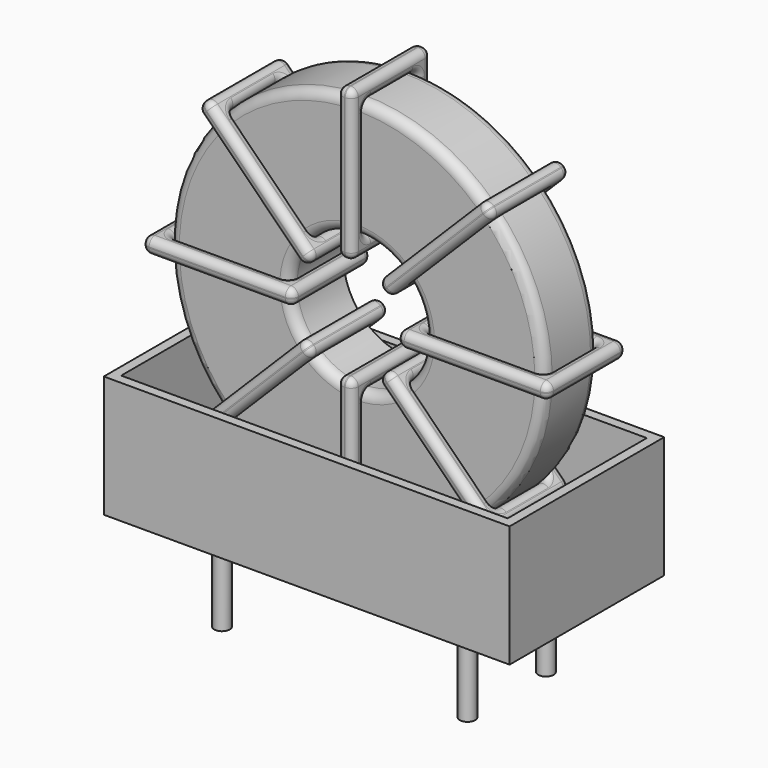
from build123d import *

# Parameters (mm, degrees)
SKETCH001_R   = 0.4
PAD001_DEPTH  = 5
SKETCH_R      = 9.7
SKETCH_R_2    = 3.5
PAD_DEPTH     = 1.74
FILLET_R      = 0.5
SKETCH003_W   = 7.8
SKETCH003_H   = 5.08
SKETCH003_W_2 = 6.2
SKETCH003_H_2 = 3.48
PAD002_DEPTH  = 0.4
FILLET001_R   = 0.376
SKETCH004_W   = 7.8
SKETCH004_H   = 5.08
SKETCH004_W_2 = 6.2
SKETCH004_H_2 = 3.48
PAD003_DEPTH  = 0.4
FILLET002_R   = 0.376
SKETCH005_W   = 7.8
SKETCH005_H   = 5.08
SKETCH005_W_2 = 6.2
SKETCH005_H_2 = 3.48
PAD004_DEPTH  = 0.4
FILLET003_R   = 0.376
SKETCH006_W   = 7.8
SKETCH006_H   = 5.08
SKETCH006_W_2 = 6.2
SKETCH006_H_2 = 3.48
PAD005_DEPTH  = 0.4
FILLET004_R   = 0.376
SKETCH007_W   = 21
SKETCH007_H   = 10
PAD006_DEPTH  = 0.5
SKETCH008_W   = 21
SKETCH008_H   = 10
SKETCH008_W_2 = 20
SKETCH008_H_2 = 9
PAD007_DEPTH  = 6.3


with BuildPart() as pad001:
    # Sketch001 → Pad001 (new body)
    with BuildSketch(Plane.XY.offset(0.75)):
        Circle(SKETCH001_R)
        with Locations((12.7, -5.08)):
            Circle(SKETCH001_R)
        with Locations((0, -5.08)):
            Circle(SKETCH001_R)
        with Locations((12.7, 0)):
            Circle(SKETCH001_R)
    extrude(amount=-PAD001_DEPTH)


with BuildPart() as fillet_body:
    # Sketch → Pad (new body, symmetric)
    with BuildSketch(Plane(origin=(6.35, -2.54, 0), x_dir=(1, 0, 0), z_dir=(0, -1, 0))):
        with Locations((0, 11.8)):
            Circle(SKETCH_R)
        with Locations((0, 11.8)):
            Circle(SKETCH_R_2, mode=Mode.SUBTRACT)
    extrude(amount=PAD_DEPTH, both=True)

    # Fillet
    fillet_edges = [fillet_body.edges().sort_by_distance(p)[0] for p in [
        (2.85, -4.28, 11.8),
        (-3.35, -4.28, 11.8),
        (-3.35, -0.8, 11.8),
    ]]
    fillet(fillet_edges, radius=FILLET_R)


with BuildPart() as fillet001:
    # Sketch003 → Pad002 (new body, symmetric)
    with BuildSketch(Plane(origin=(6.35, 0, 11.8), x_dir=(1, 0, 0), z_dir=(0, 0, -1))):
        with Locations((-6.6, 2.54)):
            Rectangle(SKETCH003_W, SKETCH003_H)
        with Locations((-6.6, 2.54)):
            Rectangle(SKETCH003_W_2, SKETCH003_H_2, mode=Mode.SUBTRACT)
        with Locations((6.6, 2.54)):
            Rectangle(SKETCH003_W, SKETCH003_H)
        with Locations((6.6, 2.54)):
            Rectangle(SKETCH003_W_2, SKETCH003_H_2, mode=Mode.SUBTRACT)
    extrude(amount=PAD002_DEPTH, both=True)

    # Fillet001
    fillet001_edges = [fillet001.edges().sort_by_distance(p)[0] for p in [
        (2.85, -4.28, 11.8),
        (2.85, -0.8, 11.8),
        (2.85, -2.54, 12.2),
        (2.85, -2.54, 11.4),
        (-4.15, -5.08, 11.8),
        (3.65, -5.08, 11.8),
        (-0.25, -5.08, 12.2),
        (-0.25, -5.08, 11.4),
        (3.65, 0, 11.8),
        (3.65, -2.54, 12.2),
        (3.65, -2.54, 11.4),
        (9.85, -4.28, 11.8),
        (16.05, -4.28, 11.8),
        (12.95, -4.28, 12.2),
        (12.95, -4.28, 11.4),
        (16.05, -0.8, 11.8),
        (16.05, -2.54, 12.2),
        (16.05, -2.54, 11.4),
        (9.05, -5.08, 11.8),
        (16.85, -5.08, 11.8),
        (12.95, -5.08, 12.2),
        (12.95, -5.08, 11.4),
        (16.85, 0, 11.8),
        (16.85, -2.54, 12.2),
        (16.85, -2.54, 11.4),
        (-3.35, -4.28, 11.8),
        (-0.25, -4.28, 12.2),
        (-0.25, -4.28, 11.4),
        (9.85, -0.8, 11.8),
        (9.85, -2.54, 12.2),
        (9.85, -2.54, 11.4),
        (12.95, -0.8, 12.2),
        (12.95, -0.8, 11.4),
        (9.05, 0, 11.8),
        (12.95, 0, 12.2),
        (12.95, 0, 11.4),
        (9.05, -2.54, 12.2),
        (9.05, -2.54, 11.4),
        (-4.15, 0, 11.8),
        (-0.25, 0, 12.2),
        (-0.25, 0, 11.4),
        (-4.15, -2.54, 12.2),
        (-4.15, -2.54, 11.4),
        (-3.35, -0.8, 11.8),
        (-3.35, -2.54, 12.2),
        (-3.35, -2.54, 11.4),
        (-0.25, -0.8, 12.2),
        (-0.25, -0.8, 11.4),
    ]]
    fillet(fillet001_edges, radius=FILLET001_R)


with BuildPart() as fillet002:
    # Sketch004 → Pad003 (new body, symmetric)
    with BuildSketch(Plane(origin=(6.35, 0, 11.8), x_dir=(0.707108, 0, 0.707106), z_dir=(0.707106, 0, -0.707108))):
        with Locations((-6.6, 2.54)):
            Rectangle(SKETCH004_W, SKETCH004_H)
        with Locations((-6.6, 2.54)):
            Rectangle(SKETCH004_W_2, SKETCH004_H_2, mode=Mode.SUBTRACT)
        with Locations((6.6, 2.54)):
            Rectangle(SKETCH004_W, SKETCH004_H)
        with Locations((6.6, 2.54)):
            Rectangle(SKETCH004_W_2, SKETCH004_H_2, mode=Mode.SUBTRACT)
    extrude(amount=PAD003_DEPTH, both=True)

    # Fillet002
    fillet002_edges = [fillet002.edges().sort_by_distance(p)[0] for p in [
        (-0.508944, -4.28, 4.941072),
        (3.875123, -0.8, 9.325129),
        (1.400247, -0.8, 7.415944),
        (1.965932, -0.8, 6.850258),
        (-1.07463, -5.08, 4.375387),
        (4.440809, -5.08, 9.890814),
        (1.400247, -5.08, 7.415944),
        (1.965932, -5.08, 6.850258),
        (4.440809, 0, 9.890814),
        (4.157967, -2.54, 10.173657),
        (4.723652, -2.54, 9.607971),
        (8.824877, -4.28, 14.274871),
        (13.208944, -4.28, 18.658928),
        (10.734068, -4.28, 16.749742),
        (11.299753, -4.28, 16.184056),
        (13.208944, -0.8, 18.658928),
        (12.926101, -2.54, 18.941771),
        (13.491786, -2.54, 18.376085),
        (8.259191, -5.08, 13.709186),
        (13.77463, -5.08, 19.224613),
        (10.734068, -5.08, 16.749742),
        (11.299753, -5.08, 16.184056),
        (13.77463, 0, 19.224613),
        (13.491787, -2.54, 19.507456),
        (14.057472, -2.54, 18.94177),
        (-0.508944, -0.8, 4.941072),
        (-0.791786, -2.54, 5.223915),
        (-0.226101, -2.54, 4.658229),
        (8.824877, -0.8, 14.274871),
        (8.542034, -2.54, 14.557714),
        (9.107719, -2.54, 13.992028),
        (10.734068, -0.8, 16.749742),
        (11.299753, -0.8, 16.184056),
        (8.259191, 0, 13.709186),
        (10.734068, 0, 16.749742),
        (11.299753, 0, 16.184056),
        (7.976348, -2.54, 13.992029),
        (8.542033, -2.54, 13.426343),
        (-1.07463, 0, 4.375387),
        (1.400247, 0, 7.415944),
        (1.965932, 0, 6.850258),
        (-1.357472, -2.54, 4.65823),
        (-0.791787, -2.54, 4.092544),
        (3.875123, -4.28, 9.325129),
        (1.400247, -4.28, 7.415944),
        (1.965932, -4.28, 6.850258),
        (3.592281, -2.54, 9.607972),
        (4.157966, -2.54, 9.042286),
    ]]
    fillet(fillet002_edges, radius=FILLET002_R)


with BuildPart() as fillet003:
    # Sketch005 → Pad004 (new body, symmetric)
    with BuildSketch(Plane(origin=(6.35, 0, 11.8), x_dir=(0.707108, 0, -0.707106), z_dir=(-0.707106, 0, -0.707108))):
        with Locations((-6.6, 2.54)):
            Rectangle(SKETCH005_W, SKETCH005_H)
        with Locations((-6.6, 2.54)):
            Rectangle(SKETCH005_W_2, SKETCH005_H_2, mode=Mode.SUBTRACT)
        with Locations((6.6, 2.54)):
            Rectangle(SKETCH005_W, SKETCH005_H)
        with Locations((6.6, 2.54)):
            Rectangle(SKETCH005_W_2, SKETCH005_H_2, mode=Mode.SUBTRACT)
    extrude(amount=PAD004_DEPTH, both=True)

    # Fillet003
    fillet003_edges = [fillet003.edges().sort_by_distance(p)[0] for p in [
        (-0.508944, -4.28, 18.658928),
        (3.875123, -0.8, 14.274871),
        (1.965932, -0.8, 16.749742),
        (1.400247, -0.8, 16.184056),
        (-1.07463, -5.08, 19.224613),
        (4.440809, -5.08, 13.709186),
        (1.965932, -5.08, 16.749742),
        (1.400247, -5.08, 16.184056),
        (4.440809, 0, 13.709186),
        (4.723652, -2.54, 13.992029),
        (4.157967, -2.54, 13.426343),
        (8.824877, -4.28, 9.325129),
        (13.208944, -4.28, 4.941072),
        (11.299753, -4.28, 7.415944),
        (10.734068, -4.28, 6.850258),
        (13.208944, -0.8, 4.941072),
        (13.491786, -2.54, 5.223915),
        (12.926101, -2.54, 4.658229),
        (8.259191, -5.08, 9.890814),
        (13.77463, -5.08, 4.375387),
        (11.299753, -5.08, 7.415944),
        (10.734068, -5.08, 6.850258),
        (13.77463, 0, 4.375387),
        (14.057472, -2.54, 4.65823),
        (13.491787, -2.54, 4.092544),
        (-0.508944, -0.8, 18.658928),
        (-0.226101, -2.54, 18.941771),
        (-0.791786, -2.54, 18.376085),
        (8.824877, -0.8, 9.325129),
        (9.107719, -2.54, 9.607972),
        (8.542034, -2.54, 9.042286),
        (11.299753, -0.8, 7.415944),
        (10.734068, -0.8, 6.850258),
        (8.259191, 0, 9.890814),
        (11.299753, 0, 7.415944),
        (10.734068, 0, 6.850258),
        (8.542033, -2.54, 10.173657),
        (7.976348, -2.54, 9.607971),
        (-1.07463, 0, 19.224613),
        (1.965932, 0, 16.749742),
        (1.400247, 0, 16.184056),
        (-0.791787, -2.54, 19.507456),
        (-1.357472, -2.54, 18.94177),
        (3.875123, -4.28, 14.274871),
        (1.965932, -4.28, 16.749742),
        (1.400247, -4.28, 16.184056),
        (4.157966, -2.54, 14.557714),
        (3.592281, -2.54, 13.992028),
    ]]
    fillet(fillet003_edges, radius=FILLET003_R)


with BuildPart() as fillet004:
    # Sketch006 → Pad005 (new body, symmetric)
    with BuildSketch(Plane(origin=(6.35, 0, 11.8), x_dir=(0, 0, 1), z_dir=(1, 0, 0))):
        with Locations((-6.6, 2.54)):
            Rectangle(SKETCH006_W, SKETCH006_H)
        with Locations((-6.6, 2.54)):
            Rectangle(SKETCH006_W_2, SKETCH006_H_2, mode=Mode.SUBTRACT)
        with Locations((6.6, 2.54)):
            Rectangle(SKETCH006_W, SKETCH006_H)
        with Locations((6.6, 2.54)):
            Rectangle(SKETCH006_W_2, SKETCH006_H_2, mode=Mode.SUBTRACT)
    extrude(amount=PAD005_DEPTH, both=True)

    # Fillet004
    fillet004_edges = [fillet004.edges().sort_by_distance(p)[0] for p in [
        (6.35, -4.28, 21.5),
        (6.35, -0.8, 21.5),
        (5.95, -2.54, 21.5),
        (6.75, -2.54, 21.5),
        (6.35, 0, 22.3),
        (6.35, 0, 14.5),
        (5.95, 0, 18.4),
        (6.75, 0, 18.4),
        (6.35, -5.08, 14.5),
        (5.95, -2.54, 14.5),
        (6.75, -2.54, 14.5),
        (6.35, -4.28, 2.1),
        (6.35, -4.28, 8.3),
        (5.95, -4.28, 5.2),
        (6.75, -4.28, 5.2),
        (6.35, -0.8, 8.3),
        (5.95, -2.54, 8.3),
        (6.75, -2.54, 8.3),
        (6.35, 0, 9.1),
        (6.35, 0, 1.3),
        (5.95, 0, 5.2),
        (6.75, 0, 5.2),
        (6.35, -5.08, 1.3),
        (5.95, -2.54, 1.3),
        (6.75, -2.54, 1.3),
        (6.35, -4.28, 15.3),
        (5.95, -4.28, 18.4),
        (6.75, -4.28, 18.4),
        (6.35, -0.8, 2.1),
        (5.95, -2.54, 2.1),
        (6.75, -2.54, 2.1),
        (5.95, -0.8, 5.2),
        (6.75, -0.8, 5.2),
        (6.35, -5.08, 9.1),
        (5.95, -5.08, 5.2),
        (6.75, -5.08, 5.2),
        (5.95, -2.54, 9.1),
        (6.75, -2.54, 9.1),
        (6.35, -5.08, 22.3),
        (5.95, -5.08, 18.4),
        (6.75, -5.08, 18.4),
        (5.95, -2.54, 22.3),
        (6.75, -2.54, 22.3),
        (6.35, -0.8, 15.3),
        (5.95, -2.54, 15.3),
        (6.75, -2.54, 15.3),
        (5.95, -0.8, 18.4),
        (6.75, -0.8, 18.4),
    ]]
    fillet(fillet004_edges, radius=FILLET004_R)


with BuildPart() as pad006:
    # Sketch007 → Pad006 (new body)
    with BuildSketch(Plane(origin=(6.35, 0, 0.5), x_dir=(1, 0, 0), z_dir=(0, 0, 1))):
        with Locations((0, -2.54)):
            Rectangle(SKETCH007_W, SKETCH007_H)
    extrude(amount=PAD006_DEPTH)


with BuildPart() as pad007:
    # Sketch008 → Pad007 (new body)
    with BuildSketch(Plane(origin=(6.35, 0, 0.5), x_dir=(1, 0, 0), z_dir=(0, 0, 1))):
        with Locations((0, -2.54)):
            Rectangle(SKETCH008_W, SKETCH008_H)
        with Locations((0, -2.54)):
            Rectangle(SKETCH008_W_2, SKETCH008_H_2, mode=Mode.SUBTRACT)
    extrude(amount=PAD007_DEPTH)


solid = Compound([pad001.part, fillet_body.part, fillet001.part, fillet002.part, fillet003.part, fillet004.part, pad006.part, pad007.part])
